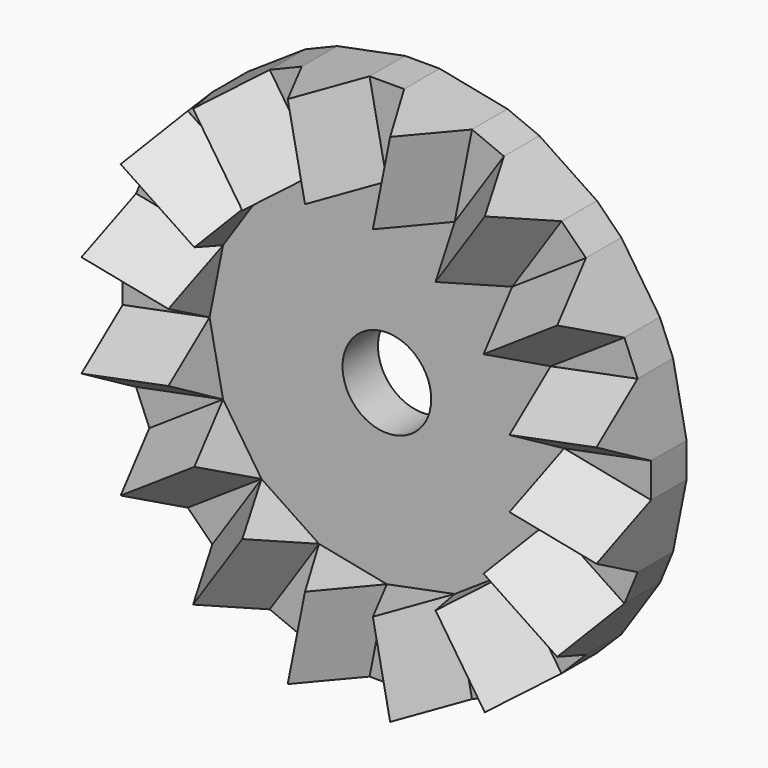
from build123d import *

# Parameters (mm, degrees)
F1_DEPTH = 2
F0_R     = 2
F3_DEPTH = 4
F4_COUNT = 16


with BuildPart() as f1:
    # F0 (on Front) → F1 (new body)
    with BuildSketch(Plane.XZ):
        Polygon((-0.7803612881, 11.9231411216), (0, 8), (0.7803612881, 11.9231411216), align=None)
    extrude(amount=-F1_DEPTH)



with BuildPart() as f1b:
    # F0 (on Front) → F1, piece 2 (new body)
    with BuildSketch(Plane.XZ):
        Polygon((3.841828747, 11.3141773817), (3.0614674589, 7.3910362601), (5.283748391, 10.7169147093), align=None)
    extrude(amount=-F1_DEPTH)


with BuildPart() as f1c:
    # F0 (on Front) → F1, piece 3 (new body)
    with BuildSketch(Plane.XZ):
        Polygon((7.8791351816, 8.9827326987), (5.6568542495, 5.6568542495), (8.9827326987, 7.8791351816), align=None)
    extrude(amount=-F1_DEPTH)


with BuildPart() as f1d:
    # F0 (on Front) → F1, piece 4 (new body)
    with BuildSketch(Plane.XZ):
        Polygon((10.7169147093, 5.283748391), (7.3910362601, 3.0614674589), (11.3141773817, 3.841828747), align=None)
    extrude(amount=-F1_DEPTH)


with BuildPart() as f1e:
    # F0 (on Front) → F1, piece 5 (new body)
    with BuildSketch(Plane.XZ):
        Polygon((11.9231411216, 0.7803612881), (8, 0), (11.9231411216, -0.7803612881), align=None)
    extrude(amount=-F1_DEPTH)


with BuildPart() as f1f:
    # F0 (on Front) → F1, piece 6 (new body)
    with BuildSketch(Plane.XZ):
        Polygon((11.3141773817, -3.841828747), (7.3910362601, -3.0614674589), (10.7169147093, -5.283748391), align=None)
    extrude(amount=-F1_DEPTH)


with BuildPart() as f1g:
    # F0 (on Front) → F1, piece 7 (new body)
    with BuildSketch(Plane.XZ):
        Polygon((8.9827326987, -7.8791351816), (5.6568542495, -5.6568542495), (7.8791351816, -8.9827326987), align=None)
    extrude(amount=-F1_DEPTH)


with BuildPart() as f1h:
    # F0 (on Front) → F1, piece 8 (new body)
    with BuildSketch(Plane.XZ):
        Polygon((5.283748391, -10.7169147093), (3.0614674589, -7.3910362601), (3.841828747, -11.3141773817), align=None)
    extrude(amount=-F1_DEPTH)


with BuildPart() as f1i:
    # F0 (on Front) → F1, piece 9 (new body)
    with BuildSketch(Plane.XZ):
        Polygon((0.7803612881, -11.9231411216), (0, -8), (-0.7803612881, -11.9231411216), align=None)
    extrude(amount=-F1_DEPTH)


with BuildPart() as f1j:
    # F0 (on Front) → F1, piece 10 (new body)
    with BuildSketch(Plane.XZ):
        Polygon((-3.841828747, -11.3141773817), (-3.0614674589, -7.3910362601), (-5.283748391, -10.7169147093), align=None)
    extrude(amount=-F1_DEPTH)


with BuildPart() as f1k:
    # F0 (on Front) → F1, piece 11 (new body)
    with BuildSketch(Plane.XZ):
        Polygon((-7.8791351816, -8.9827326987), (-5.6568542495, -5.6568542495), (-8.9827326987, -7.8791351816), align=None)
    extrude(amount=-F1_DEPTH)


with BuildPart() as f1l:
    # F0 (on Front) → F1, piece 12 (new body)
    with BuildSketch(Plane.XZ):
        Polygon((-10.7169147093, -5.283748391), (-7.3910362601, -3.0614674589), (-11.3141773817, -3.841828747), align=None)
    extrude(amount=-F1_DEPTH)


with BuildPart() as f1m:
    # F0 (on Front) → F1, piece 13 (new body)
    with BuildSketch(Plane.XZ):
        Polygon((-11.9231411216, -0.7803612881), (-8, 0), (-11.9231411216, 0.7803612881), align=None)
    extrude(amount=-F1_DEPTH)


with BuildPart() as f1n:
    # F0 (on Front) → F1, piece 14 (new body)
    with BuildSketch(Plane.XZ):
        Polygon((-11.3141773817, 3.841828747), (-7.3910362601, 3.0614674589), (-10.7169147093, 5.283748391), align=None)
    extrude(amount=-F1_DEPTH)


with BuildPart() as f1o:
    # F0 (on Front) → F1, piece 15 (new body)
    with BuildSketch(Plane.XZ):
        Polygon((-8.9827326987, 7.8791351816), (-5.6568542495, 5.6568542495), (-7.8791351816, 8.9827326987), align=None)
    extrude(amount=-F1_DEPTH)


with BuildPart() as f1p:
    # F0 (on Front) → F1, piece 16 (new body)
    with BuildSketch(Plane.XZ):
        Polygon((0, 8), (-3.0614674589, 7.3910362601), (-5.6568542495, 5.6568542495), (-7.3910362601, 3.0614674589), (-8, 0), (-7.3910362601, -3.0614674589), (-5.6568542495, -5.6568542495), (-3.0614674589, -7.3910362601), (0, -8), (3.0614674589, -7.3910362601), (5.6568542495, -5.6568542495), (7.3910362601, -3.0614674589), (8, 0), (7.3910362601, 3.0614674589), (5.6568542495, 5.6568542495), (3.0614674589, 7.3910362601), align=None)
        Circle(F0_R, mode=Mode.SUBTRACT)
    extrude(amount=-F1_DEPTH)


with BuildPart() as f1q:
    # F0 (on Front) → F1, piece 17 (new body)
    with BuildSketch(Plane.XZ):
        Polygon((-5.283748391, 10.7169147093), (-3.0614674589, 7.3910362601), (-3.841828747, 11.3141773817), align=None)
    extrude(amount=-F1_DEPTH)


with BuildPart() as f1_1:
    add(f1.part)

    add(f1p.part)  # F3 merges F1p

    add(f1q.part)  # F3 merges F1q
    # F2 (on face) → F3 (join)
    with BuildSketch(Plane(origin=(-1.5307337295, 0, 7.69551813), x_dir=(0.9807852804, 0, 0.195090322), z_dir=(-0.195090322, 0, 0.9807852804))):
        Polygon((-1.5607225761, 2), (-1.5607225761, 0), (0, -2.7032507984), (1.5607225761, 0), (1.5607225761, 2), align=None)
    extrude(amount=F3_DEPTH)



with BuildPart() as f1_2:
    add(f1_1.part)

    add(f1b.part)  # F4 merges F1b

    add(f1c.part)  # F4 merges F1c

    add(f1d.part)  # F4 merges F1d

    add(f1e.part)  # F4 merges F1e

    add(f1f.part)  # F4 merges F1f

    add(f1g.part)  # F4 merges F1g

    add(f1h.part)  # F4 merges F1h

    add(f1i.part)  # F4 merges F1i

    add(f1j.part)  # F4 merges F1j

    add(f1k.part)  # F4 merges F1k

    add(f1l.part)  # F4 merges F1l

    add(f1m.part)  # F4 merges F1m

    add(f1n.part)  # F4 merges F1n

    add(f1o.part)  # F4 merges F1o
    # F4: F1 ×16 about axis
    f4_axis = Axis((0, 0, 0), (0, -1, 0))
    for i in range(1, F4_COUNT):
        add(f1_1.part.rotate(f4_axis, i * 360 / F4_COUNT))


solid = f1_2.part
